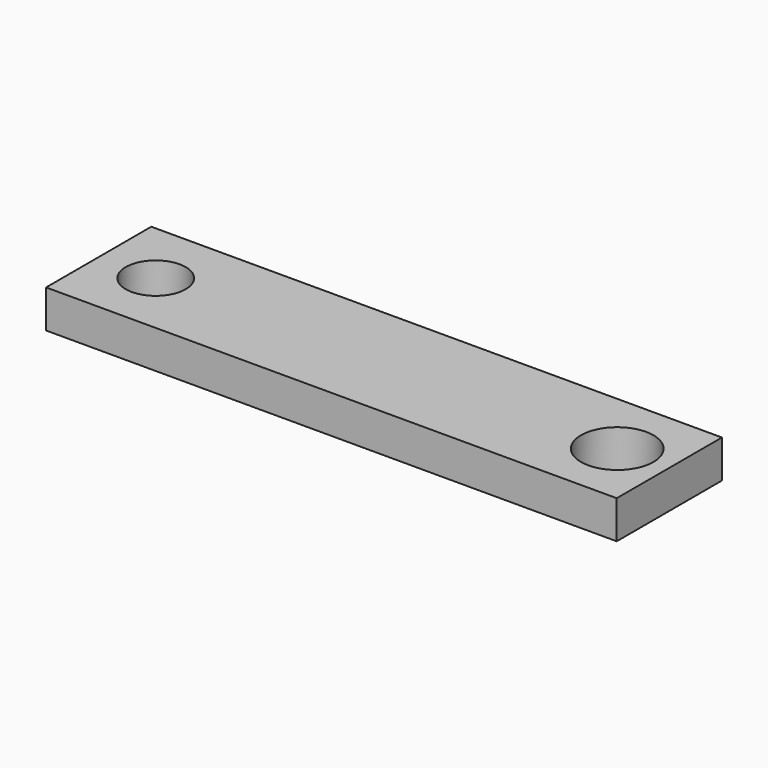
from build123d import *

# Parameters (mm, degrees)
F0_W     = 95.497028
F0_H     = 22.005842
F0_R     = 5.02123
F0_R_2   = 6.063265
F1_DEPTH = 6.35


with BuildPart() as f1:
    # F0 (on Top) → F1 (new body)
    with BuildSketch(Plane.XY):
        Rectangle(F0_W, F0_H)
        with Locations((-38.198818, 0)):
            Circle(F0_R, mode=Mode.SUBTRACT)
        with Locations((39.029218, 0)):
            Circle(F0_R_2, mode=Mode.SUBTRACT)
    extrude(amount=F1_DEPTH)


solid = f1.part
